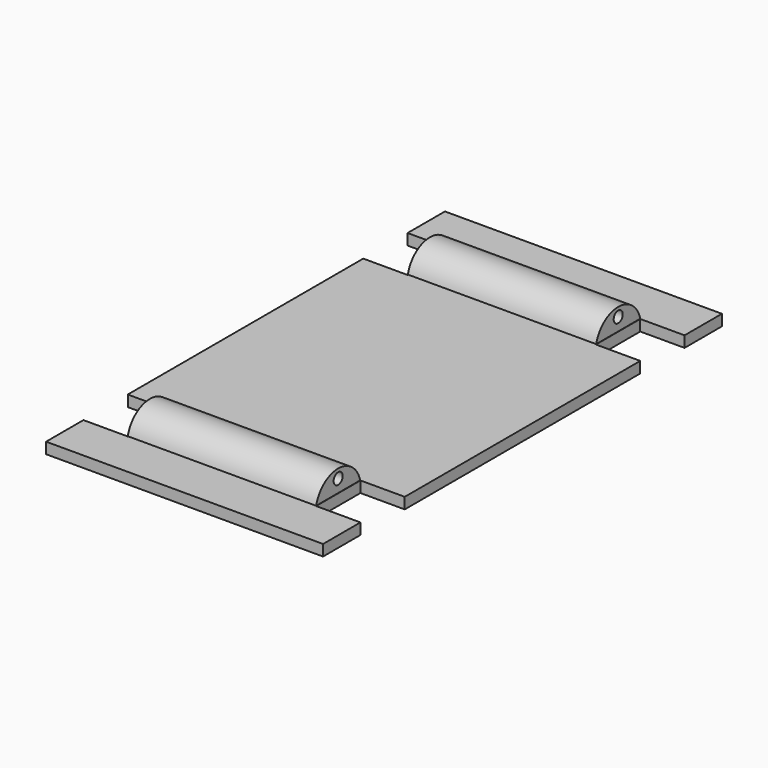
from build123d import *

# Parameters (mm, degrees)
F1_DEPTH = 1
F2_R     = 0.509805
F3_DEPTH = 8.5


with BuildPart() as f1:
    # F0 (on Top) → F1 (new body)
    with BuildSketch(Plane.XY):
        Polygon((12.5, 22.5), (-12.5, 22.5), (-12.5, 18.284373), (-8.5, 18.284373), (-8.5, 13.284373), (-12.5, 13.284373), (-12.5, -13.284373), (-8.5, -13.284373), (-8.5, -18.284373), (-12.5, -18.284373), (-12.5, -22.5), (12.5, -22.5), (12.5, -18.284373), (8.5, -18.284373), (8.5, -13.284373), (12.5, -13.284373), (12.5, 13.284373), (8.5, 13.284373), (8.5, 18.284373), (12.5, 18.284373), align=None)
    extrude(amount=F1_DEPTH)


with BuildPart() as f3:
    # F2 (on Right) → F3 (new body, symmetric)
    with BuildSketch(Plane.YZ):
        with BuildLine():
            Line((-18.284826, 1.020695), (-13.312981, 1.020695))
            ThreePointArc((-13.312981, 1.020695), (-15.798904, 2.973475), (-18.284826, 1.020695))
        make_face()
        with Locations((-15.798904, 2.175968)):
            Circle(F2_R, mode=Mode.SUBTRACT)
        with BuildLine():
            ThreePointArc((18.284826, 1.020695), (15.798904, 2.973475), (13.312981, 1.020695))
            Line((13.312981, 1.020695), (18.284826, 1.020695))
        make_face()
        with Locations((15.798904, 2.175968)):
            Circle(F2_R, mode=Mode.SUBTRACT)
    extrude(amount=F3_DEPTH, both=True)


solid = Compound([f1.part, f3.part])
